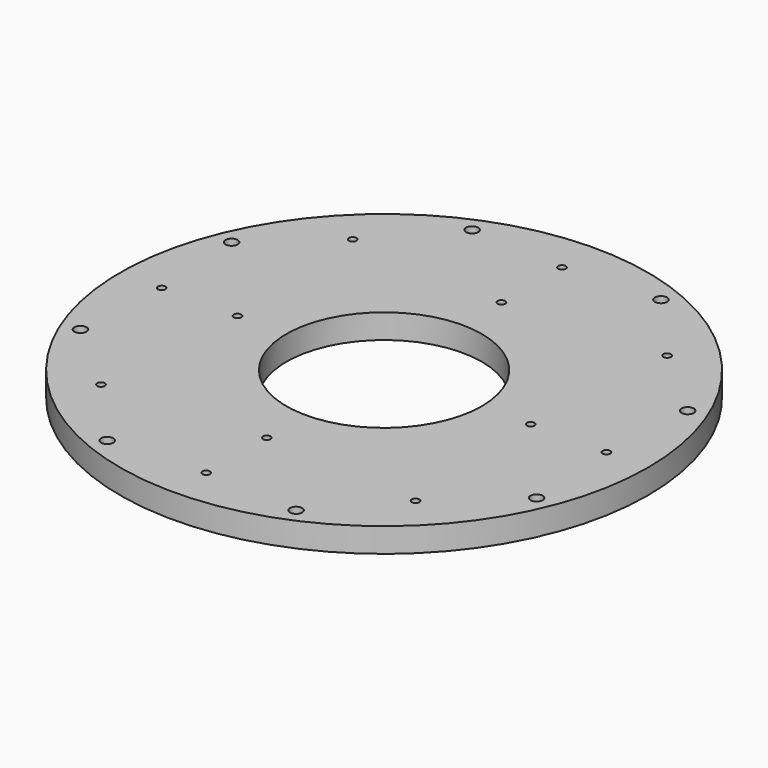
from build123d import *

# Parameters (mm, degrees)
SKETCH001_R       = 108
SKETCH001_R_2     = 40
SKETCH001_R_3     = 2.5
SKETCH001_R_4     = 1.5625
PAD_DEPTH         = 10
SKETCH_R          = 1.5625
POCKET_DEPTH      = 10.001
POCKET_DEPTH_BACK = 0.001


with BuildPart() as part:
    # Sketch001 → Pad (new body)
    with BuildSketch(Plane(origin=(0, 0, 0), x_dir=(1, 0, 0), z_dir=(0, 0, -1))):
        Circle(SKETCH001_R)
        Circle(SKETCH001_R_2, mode=Mode.SUBTRACT)
        with Locations((38.651027, 93.311833)):
            Circle(SKETCH001_R_3, mode=Mode.SUBTRACT)
        with Locations((93.311833, 38.651027)):
            Circle(SKETCH001_R_3, mode=Mode.SUBTRACT)
        with Locations((93.311833, -38.651027)):
            Circle(SKETCH001_R_3, mode=Mode.SUBTRACT)
        with Locations((38.651027, -93.311833)):
            Circle(SKETCH001_R_3, mode=Mode.SUBTRACT)
        with Locations((-38.651027, 93.311833)):
            Circle(SKETCH001_R_3, mode=Mode.SUBTRACT)
        with Locations((-93.311833, 38.651027)):
            Circle(SKETCH001_R_3, mode=Mode.SUBTRACT)
        with Locations((-93.311833, -38.651027)):
            Circle(SKETCH001_R_3, mode=Mode.SUBTRACT)
        with Locations((-38.651027, -93.311833)):
            Circle(SKETCH001_R_3, mode=Mode.SUBTRACT)
        with Locations((0, 60)):
            Circle(SKETCH001_R_4, mode=Mode.SUBTRACT)
        with Locations((-60, 0)):
            Circle(SKETCH001_R_4, mode=Mode.SUBTRACT)
        with Locations((0, -60)):
            Circle(SKETCH001_R_4, mode=Mode.SUBTRACT)
        with Locations((60, 0)):
            Circle(SKETCH001_R_4, mode=Mode.SUBTRACT)
    extrude(amount=PAD_DEPTH)

    # Sketch → Pocket (cut, two sides)
    with BuildSketch(Plane.XY) as pocket_sk:
        with Locations((64.346717, 64.346717)):
            Circle(SKETCH_R)
        with Locations((0, 91)):
            Circle(SKETCH_R)
        with Locations((91, 0)):
            Circle(SKETCH_R)
        with Locations((64.346717, -64.346717)):
            Circle(SKETCH_R)
        with Locations((0, -91)):
            Circle(SKETCH_R)
        with Locations((-91, 0)):
            Circle(SKETCH_R)
        with Locations((-64.346717, -64.346717)):
            Circle(SKETCH_R)
        with Locations((-64.346717, 64.346717)):
            Circle(SKETCH_R)
    extrude(amount=-POCKET_DEPTH, mode=Mode.SUBTRACT)
    extrude(pocket_sk.sketch, amount=POCKET_DEPTH_BACK, mode=Mode.SUBTRACT)


solid = part.part
